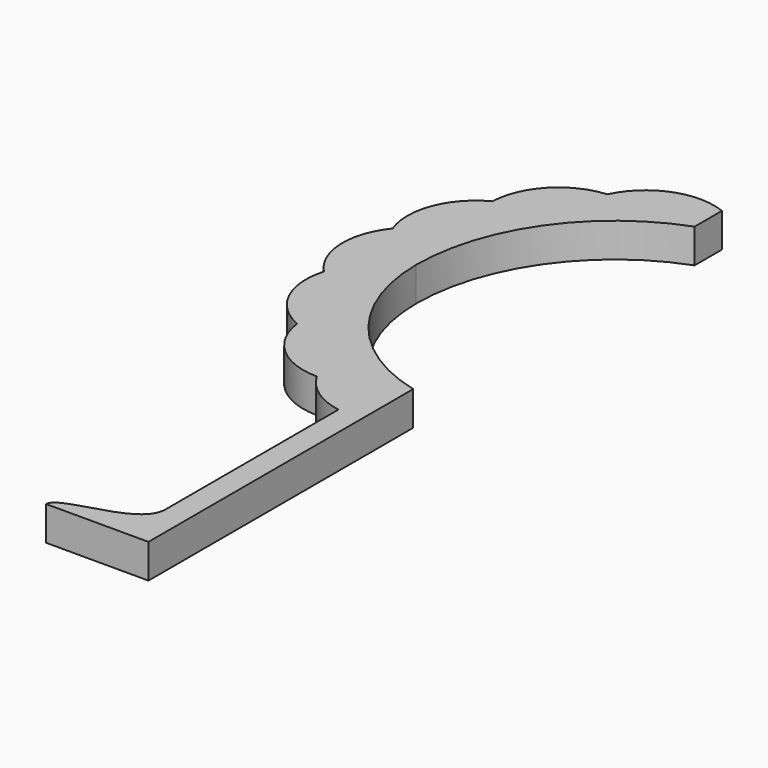
from build123d import *

# Parameters (mm, degrees)
F1_DEPTH = 10


with BuildPart() as f1:
    # F0 (on Top) → F1 (new body)
    with BuildSketch(Plane.XY):
        with BuildLine():
            Line((-12.07, 54.529991), (-12.07, 64.529991))
            ThreePointArc((-12.07, 64.529991), (-26.845727, 64.63975), (-37.664252, 54.575273))
            ThreePointArc((-37.664252, 54.575273), (-50.479085, 48.496), (-56.040163, 35.447939))
            ThreePointArc((-56.040163, 35.447939), (-65.447231, 24.83264), (-65.449648, 10.648935))
            ThreePointArc((-65.449648, 10.648935), (-69.94382, -2.803942), (-64.38719, -15.853898))
            ThreePointArc((-64.38719, -15.853898), (-63.249398, -29.991894), (-53.022781, -39.820108))
            ThreePointArc((-53.022781, -39.820108), (-46.435072, -52.381143), (-33.174727, -57.415101))
            ThreePointArc((-33.174727, -57.415101), (-27.219481, -63.87559), (-19.07, -67.160226))
            Line((-19.07, -67.160226), (-19.07, -130.470009))
            add(Edge.make_bspline(
                [(-19.07, -130.470009), (-19.012991, -140.66343), (-41.987017, -140.141293), (-42.07, -145.470009)],
                knots=[0, 0, 0, 0, 27.45906, 27.45906, 27.45906, 27.45906], degree=3))
            Line((-42.07, -145.470009), (-12.07, -145.470009))
            Line((-12.07, -145.470009), (-12.07, -48.521285))
            ThreePointArc((-12.07, -48.521285), (-39.392258, -30.793668), (-50, 0))
            ThreePointArc((-50, 0), (-39.585008, 33.212215), (-12.07, 54.529991))
        make_face()
    extrude(amount=F1_DEPTH)


solid = f1.part
